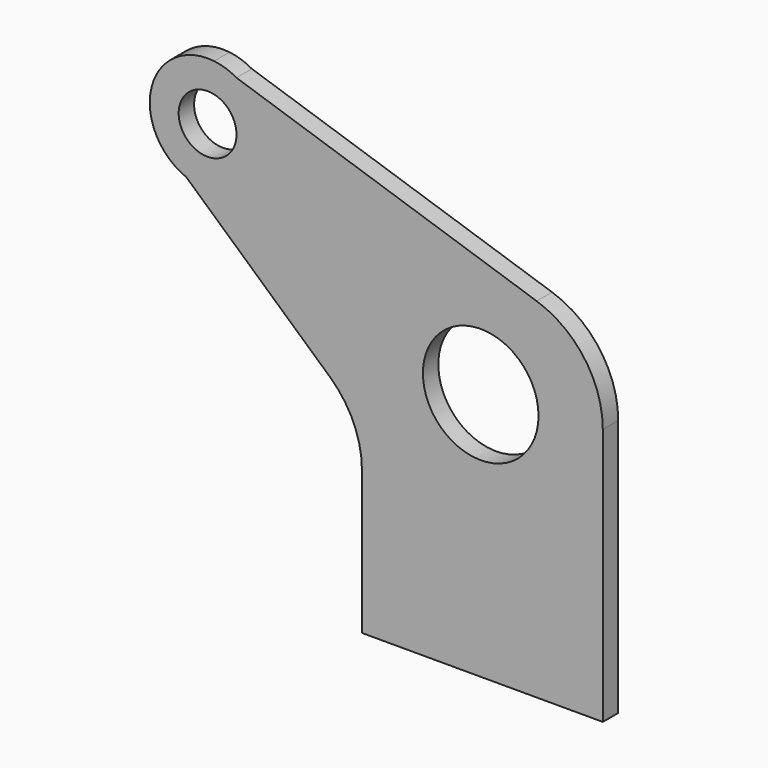
from build123d import *

# Parameters (mm, degrees)
F0_R     = 1.5
F0_R_2   = 3
F1_DEPTH = 0.5


with BuildPart() as f1:
    # F0 (on Front) → F1 (new body, symmetric)
    with BuildSketch(Plane.XZ):
        with BuildLine():
            Line((-43.515852, -2.202818), (-42.357589, -2.58474))
            ThreePointArc((-42.357589, -2.58474), (-42.917108, -2.334298), (-43.515852, -2.202818))
        make_face()
        with BuildLine():
            Line((-26.778053, -7.721893), (-42.357589, -2.58474))
            Line((-42.357589, -2.58474), (-43.515852, -2.202818))
            ThreePointArc((-43.515852, -2.202818), (-46.766091, -4.452205), (-44.965458, -7.970943))
            Line((-44.965458, -7.970943), (-37.50067, -14.683154))
            ThreePointArc((-37.50067, -14.683154), (-36.276775, -16.365911), (-35.843816, -18.401134))
            Line((-35.843816, -18.401134), (-35.843816, -25.835205))
            Line((-35.843816, -25.835205), (-23.343816, -25.835205))
            Line((-23.343816, -25.835205), (-23.343816, -12.470408))
            ThreePointArc((-23.343816, -12.470408), (-24.292346, -9.540289), (-26.778053, -7.721893))
        make_face()
        with Locations((-43.856565, -5.183407)):
            Circle(F0_R, mode=Mode.SUBTRACT)
        with Locations((-29.680468, -12.938228)):
            Circle(F0_R_2, mode=Mode.SUBTRACT)
    extrude(amount=F1_DEPTH, both=True)


solid = f1.part
